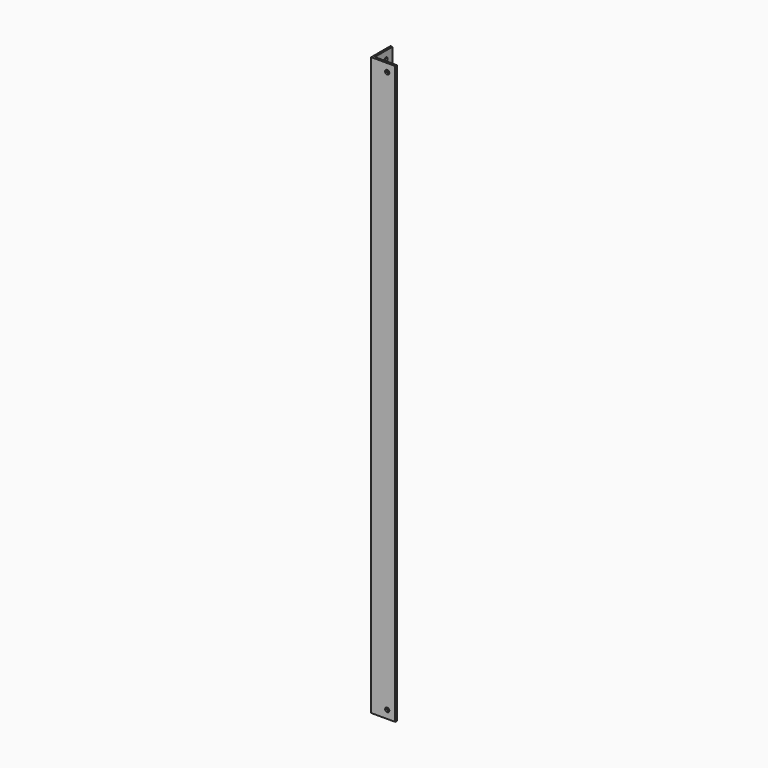
from build123d import *

# Parameters (mm, degrees)
PAD_DEPTH       = 914.4
SKETCH001_R     = 3.3
POCKET_DEPTH    = 3.175
SKETCH002_R     = 3.3
POCKET001_DEPTH = 3.175


with BuildPart() as part:
    # Sketch → Pad (new body)
    with BuildSketch(Plane.XY):
        Polygon((0, 0), (38.1, 0), (38.1, 3.175), (3.175, 3.175), (3.175, 38.1), (0, 38.1), align=None)
    extrude(amount=PAD_DEPTH)

    # Sketch001 (on Face1 of Pad) → Pocket (cut)
    with BuildSketch(Plane.XZ):
        with Locations((25.4, 901.7)):
            Circle(SKETCH001_R)
        with Locations((25.4, 12.7)):
            Circle(SKETCH001_R)
    extrude(amount=-POCKET_DEPTH, mode=Mode.SUBTRACT)

    # Sketch002 (on Face2 of Pocket) → Pocket001 (cut)
    with BuildSketch(Plane(origin=(0, 0, 0), x_dir=(0, -1, 0), z_dir=(-1, 0, 0))):
        with Locations((-25.4, 901.7)):
            Circle(SKETCH002_R)
        with Locations((-25.4, 12.7)):
            Circle(SKETCH002_R)
    extrude(amount=-POCKET001_DEPTH, mode=Mode.SUBTRACT)


solid = part.part
